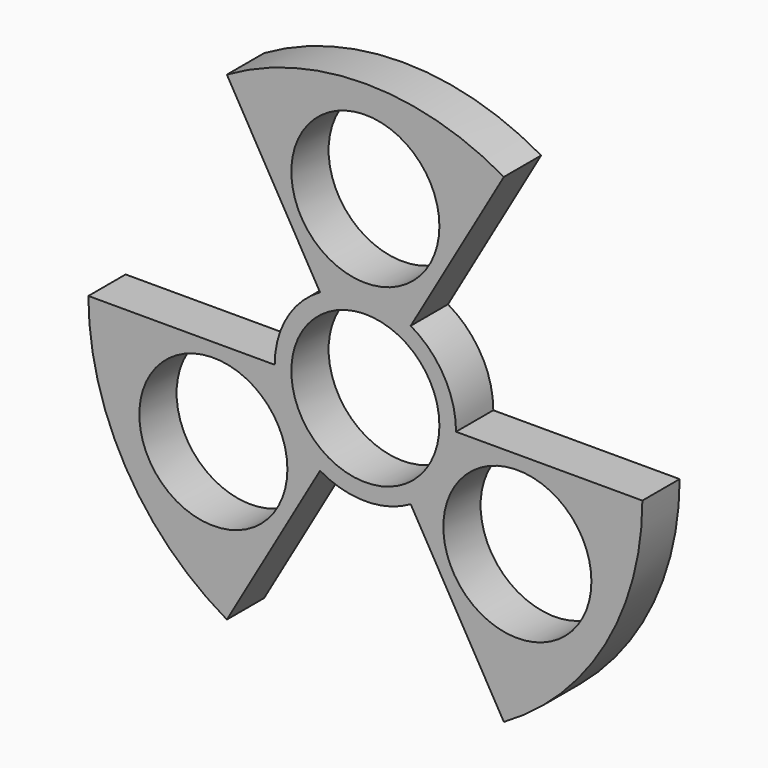
from build123d import *

# Parameters (mm, degrees)
F0_R     = 11.125
F1_DEPTH = 7


with BuildPart() as f1:
    # F0 (on Front) → F1 (new body)
    with BuildSketch(Plane.XZ):
        with BuildLine():
            ThreePointArc((6.8125, -11.799596), (11.799596, -6.8125), (13.625, 0))
            ThreePointArc((13.625, 0), (11.799596, 6.8125), (6.8125, 11.799596))
            ThreePointArc((6.8125, 11.799596), (0, 13.625), (-6.8125, 11.799596))
            ThreePointArc((-6.8125, 11.799596), (-11.799596, 6.8125), (-13.625, 0))
            ThreePointArc((-13.625, 0), (-11.799596, -6.8125), (-6.8125, -11.799596))
            ThreePointArc((-6.8125, -11.799596), (0, -13.625), (6.8125, -11.799596))
        make_face()
        Circle(F0_R, mode=Mode.SUBTRACT)
        with BuildLine():
            Line((41.625, 0), (13.625, 0))
            ThreePointArc((13.625, 0), (11.799596, -6.8125), (6.8125, -11.799596))
            Line((6.8125, -11.799596), (20.8125, -36.048307))
            ThreePointArc((20.8125, -36.048307), (36.048307, -20.8125), (41.625, 0))
        make_face()
        with Locations((22.84142, -13.1875)):
            Circle(F0_R, mode=Mode.SUBTRACT)
        with BuildLine():
            ThreePointArc((-6.8125, 11.799596), (0, 13.625), (6.8125, 11.799596))
            Line((6.8125, 11.799596), (20.8125, 36.048307))
            ThreePointArc((20.8125, 36.048307), (0, 41.625), (-20.8125, 36.048307))
            Line((-20.8125, 36.048307), (-6.8125, 11.799596))
        make_face()
        with Locations((0, 26.375)):
            Circle(F0_R, mode=Mode.SUBTRACT)
        with BuildLine():
            Line((-20.8125, -36.048307), (-6.8125, -11.799596))
            ThreePointArc((-6.8125, -11.799596), (-11.799596, -6.8125), (-13.625, 0))
            Line((-13.625, 0), (-41.625, 0))
            ThreePointArc((-41.625, 0), (-36.048307, -20.8125), (-20.8125, -36.048307))
        make_face()
        with Locations((-22.84142, -13.1875)):
            Circle(F0_R, mode=Mode.SUBTRACT)
    extrude(amount=F1_DEPTH)


solid = f1.part
